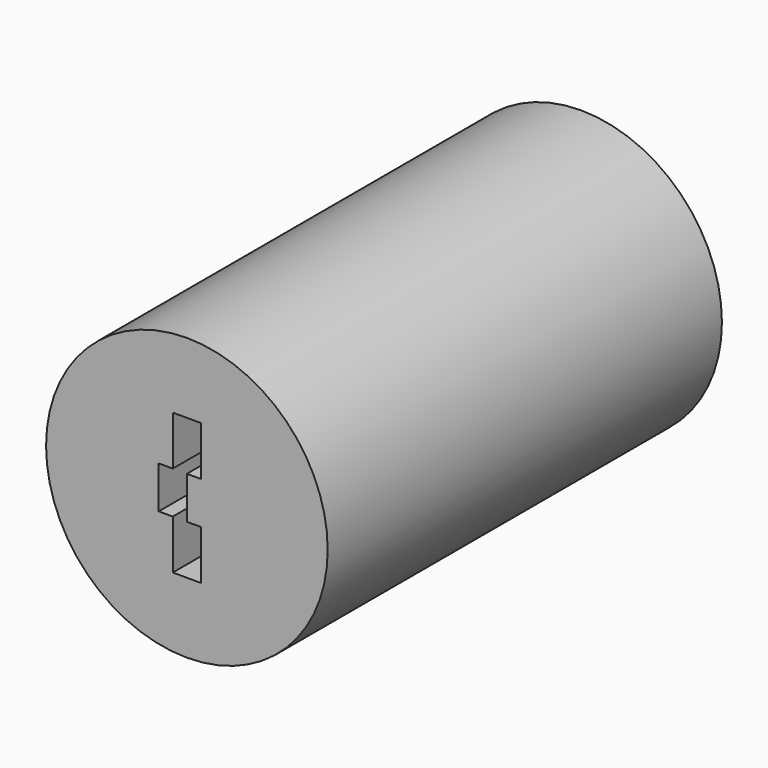
from build123d import *

# Parameters (mm, degrees)
F0_R     = 10
F1_DEPTH = 35
F4_DEPTH = 35


with BuildPart() as f1:
    # F0 (on Front) → F1 (new body)
    with BuildSketch(Plane.XZ):
        Circle(F0_R)
    extrude(amount=F1_DEPTH)

    # F3 (on face) → F4 (cut, through all)
    with BuildSketch(Plane.XZ.offset(35)):
        Polygon((1, 1.5), (1, 5), (-1, 5), (-1, 1.5), (-2, 1.5), (-2, -1.5), (-1, -1.5), (-1, -5), (1, -5), (1, -1.5), (0, -1.5), (0, 1.5), align=None)
    extrude(amount=-F4_DEPTH, mode=Mode.SUBTRACT)


solid = f1.part
